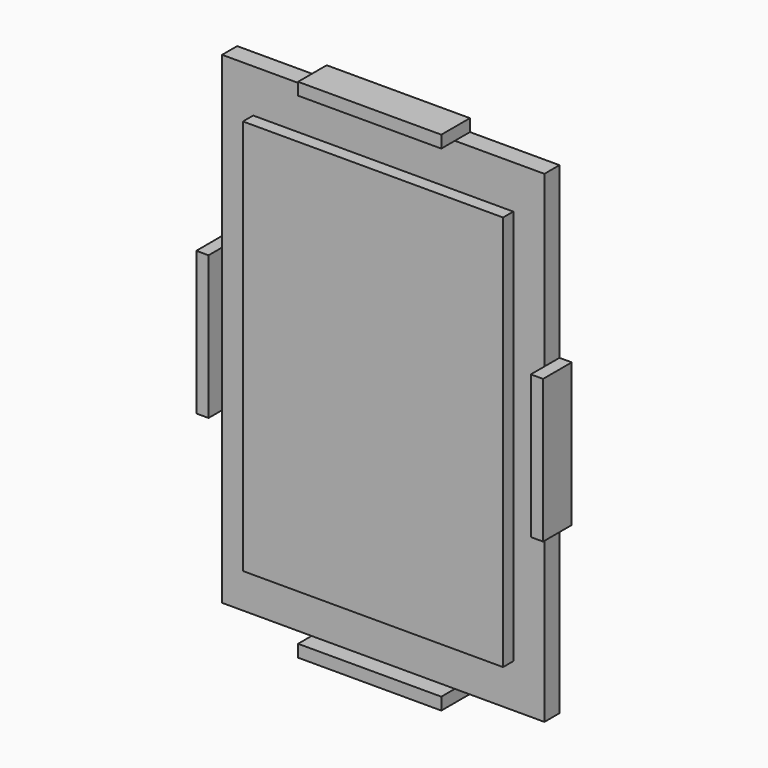
from build123d import *

# Parameters (mm, degrees)
F1_DEPTH = 5
F0_W     = 34.5
F0_H     = 52.5
F2_DEPTH = 8.4
F0_W_2   = 3.25
F0_H_2   = 19
F0_W_3   = 19
F0_H_3   = 3.25
F3_DEPTH = 9.5


with BuildPart() as f1:
    # F0 (on Front) → F1 (new body)
    with BuildSketch(Plane.XZ):
        Polygon((-3.162847, 112.5443), (-26.912847, 112.5443), (-26.912847, 67.5443), (-26.912847, 48.5443), (-18.662847, 48.5443), (-18.662847, 101.0443), (15.837153, 101.0443), (15.837153, 112.5443), align=None)
        Polygon((34.837153, 112.5443), (15.837153, 112.5443), (15.837153, 101.0443), (50.337153, 101.0443), (50.337153, 48.5443), (58.587153, 48.5443), (58.587153, 67.5443), (58.587153, 112.5443), align=None)
        Polygon((58.587153, 48.5443), (50.337153, 48.5443), (50.337153, -3.9557), (15.837153, -3.9557), (15.837153, -15.4557), (34.837153, -15.4557), (58.587153, -15.4557), (58.587153, 29.5443), align=None)
        Polygon((-18.662847, 48.5443), (-26.912847, 48.5443), (-26.912847, 29.5443), (-26.912847, -15.4557), (-3.162847, -15.4557), (15.837153, -15.4557), (15.837153, -3.9557), (-18.662847, -3.9557), align=None)
    extrude(amount=F1_DEPTH)

    # F0 (on Front) → F2 (join)
    with BuildSketch(Plane.XZ):
        with Locations((-1.412847, 74.7943)):
            Rectangle(F0_W, F0_H)
        with Locations((33.087153, 74.7943)):
            Rectangle(F0_W, F0_H)
        with Locations((33.087153, 22.2943)):
            Rectangle(F0_W, F0_H)
        with Locations((-1.412847, 22.2943)):
            Rectangle(F0_W, F0_H)
    extrude(amount=F2_DEPTH)

    # F0 (on Front) → F3 (join)
    with BuildSketch(Plane.XZ):
        with Locations((-28.537847, 58.0443)):
            Rectangle(F0_W_2, F0_H_2)
        with Locations((-28.537847, 39.0443)):
            Rectangle(F0_W_2, F0_H_2)
        with Locations((6.337153, 114.1693)):
            Rectangle(F0_W_3, F0_H_3)
        with Locations((25.337153, 114.1693)):
            Rectangle(F0_W_3, F0_H_3)
        with Locations((60.212153, 58.0443)):
            Rectangle(F0_W_2, F0_H_2)
        with Locations((60.212153, 39.0443)):
            Rectangle(F0_W_2, F0_H_2)
        with Locations((25.337153, -17.0807)):
            Rectangle(F0_W_3, F0_H_3)
        with Locations((6.337153, -17.0807)):
            Rectangle(F0_W_3, F0_H_3)
    extrude(amount=F3_DEPTH)


solid = f1.part
